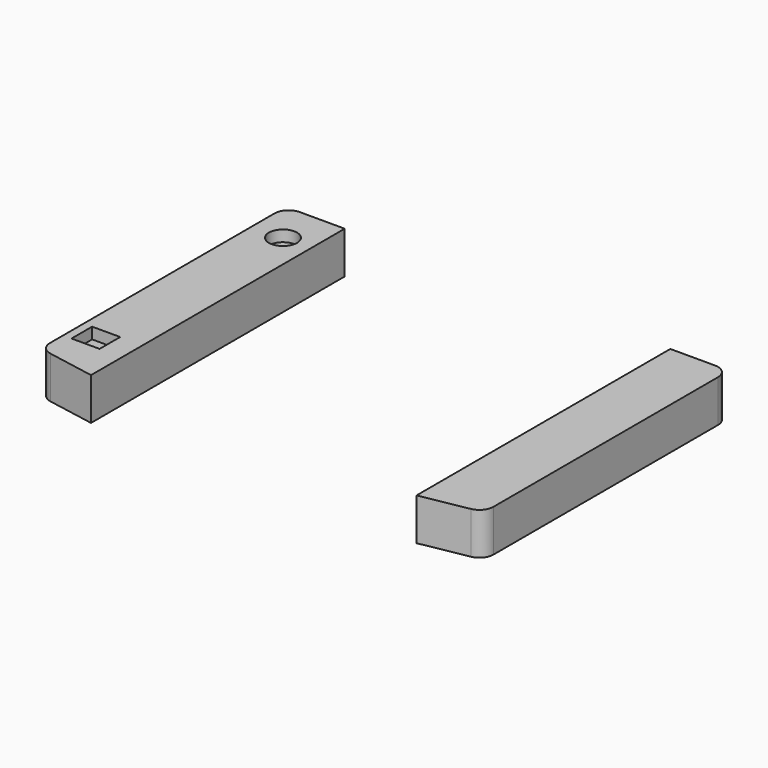
from build123d import *

# Parameters (mm, degrees)
F1_DEPTH = 15
F2_R     = 5
F2_W     = 10
F2_H     = 9.164907
F3_DEPTH = 4


with BuildPart() as f1:
    # F0 (on Top) → F1 (new body)
    with BuildSketch(Plane.XY):
        with BuildLine():
            Line((74, 72.003887), (58, 72.003887))
            Line((58, 72.003887), (58, -37.996113))
            Line((58, -37.996113), (74, -37.996113))
            ThreePointArc((74, -37.996113), (74.450303, -37.975795), (74.896946, -37.915004))
            ThreePointArc((74.896946, -37.915004), (77.839579, -36.198868), (79, -32.996113))
            Line((79, -32.996113), (79, 67.003887))
            ThreePointArc((79, 67.003887), (77.535534, 70.539421), (74, 72.003887))
        make_face()
        with BuildLine():
            Line((74, -37.996113), (58, -37.996113))
            Line((58, -37.996113), (58, -40.996113))
            Line((58, -40.996113), (74.896946, -37.915004))
            ThreePointArc((74.896946, -37.915004), (74.450303, -37.975795), (74, -37.996113))
        make_face()
        with BuildLine():
            Line((-58, -40.996113), (-58, -37.996113))
            Line((-58, -37.996113), (-74, -37.996113))
            ThreePointArc((-74, -37.996113), (-74.450303, -37.975795), (-74.896946, -37.915004))
            Line((-74.896946, -37.915004), (-58, -40.996113))
        make_face()
        with BuildLine():
            Line((-74, -37.996113), (-58, -37.996113))
            Line((-58, -37.996113), (-58, 72.003887))
            Line((-58, 72.003887), (-74, 72.003887))
            ThreePointArc((-74, 72.003887), (-77.535534, 70.539421), (-79, 67.003887))
            Line((-79, 67.003887), (-79, -32.996113))
            ThreePointArc((-79, -32.996113), (-77.839579, -36.198868), (-74.896946, -37.915004))
            ThreePointArc((-74.896946, -37.915004), (-74.450303, -37.975795), (-74, -37.996113))
        make_face()
    extrude(amount=F1_DEPTH)

    # F2 (on face) → F3 (cut)
    with BuildSketch(Plane.XY.offset(15)):
        with Locations((-68, 57.003887)):
            Circle(F2_R)
        with Locations((-71, -22.578566)):
            Rectangle(F2_W, F2_H)
    extrude(amount=-F3_DEPTH, mode=Mode.SUBTRACT)


solid = f1.part
